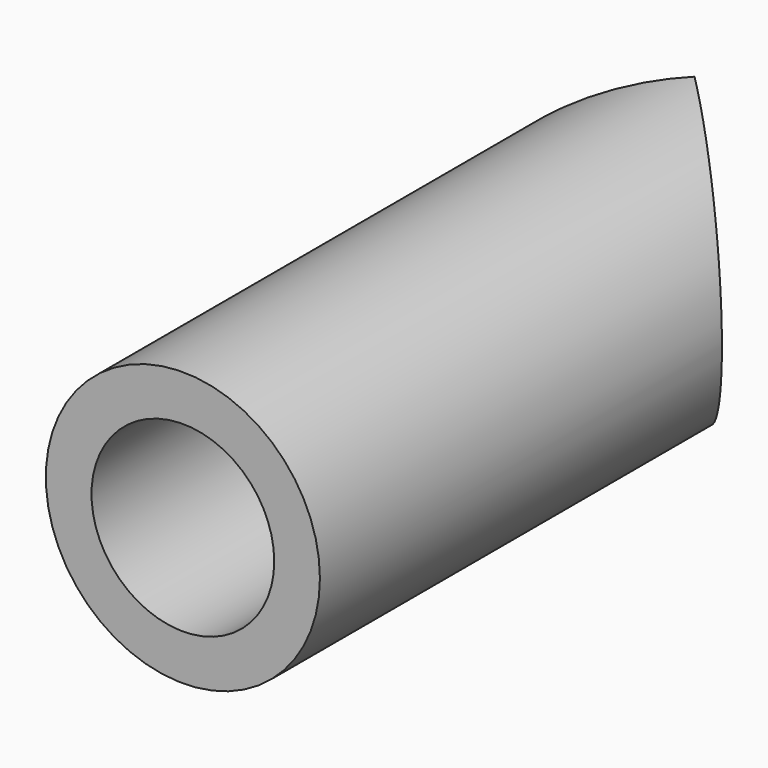
from build123d import *

# Parameters (mm, degrees)
CYLINDER001_R     = 1.5
CYLINDER001_DEPTH = 3
TUBE_R            = 1.5
TUBE_R_2          = 1
TUBE_DEPTH        = 7


with BuildPart() as cylinder001:
    # Cylinder001 → Cylinder001 (new body)
    with BuildSketch(Plane(origin=(1, 0, 4), x_dir=(0, 1, 0), z_dir=(1, 0, 0))):
        Circle(CYLINDER001_R)
    extrude(amount=CYLINDER001_DEPTH)


with BuildPart() as cut001:
    # Tube → Tube (new body)
    with BuildSketch(Plane(origin=(2.5, 0, 4), x_dir=(1, 0, 0), z_dir=(0, -1, 0))):
        Circle(TUBE_R)
        Circle(TUBE_R_2, mode=Mode.SUBTRACT)
    extrude(amount=TUBE_DEPTH)

    # Cut001: cut Cylinder001
    add(cylinder001.part, mode=Mode.SUBTRACT)


solid = cut001.part
